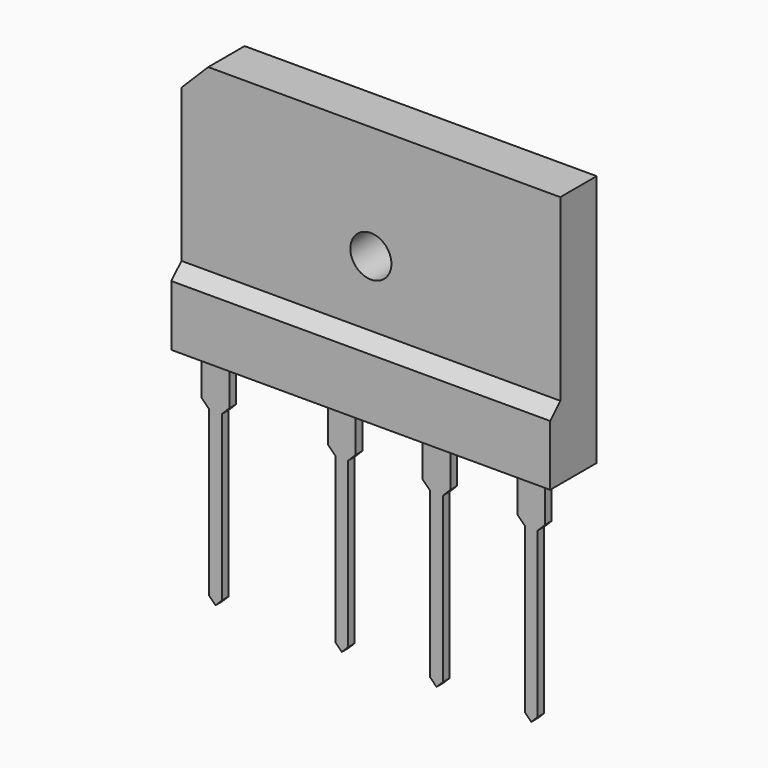
from build123d import *

# Parameters (mm, degrees)
F1_DEPTH = 15
F2_R     = 1.625
F3_DEPTH = 3.6
F5_DEPTH = 0.325


with BuildPart() as f1:
    # F0 (on Right) → F1 (new body, symmetric)
    with BuildSketch(Plane.YZ):
        Polygon((-1.575, 4), (-0.325, 4), (0, 4), (0.325, 4), (3.025, 4), (3.025, 24), (-0.575, 24), (-0.575, 9.8), (-1.575, 8.8), align=None)
    extrude(amount=F1_DEPTH, both=True)

    # F2 (on face) → F3 (cut, through all)
    with BuildSketch(Plane.XZ.offset(0.575)):
        Polygon((-15, 24), (-15, 21.87868), (-12.87868, 24), align=None)
        with Locations((0, 15)):
            Circle(F2_R)
    extrude(amount=-F3_DEPTH, mode=Mode.SUBTRACT)


with BuildPart() as f5:
    # F4 (on Front) → F5 (new body, symmetric)
    with BuildSketch(Plane.XZ):
        Polygon((11.4, 0.6), (12, 0), (12, -13), (12.5, -13.5), (13, -13), (13, 0), (13.6, 0.6), (13.6, 4), (12.5, 4), (11.4, 4), align=None)
        Polygon((5.5, -13), (5.5, 0), (6.1, 0.6), (6.1, 4), (5, 4), (3.9, 4), (3.9, 0.6), (4.5, 0), (4.5, -13), (5, -13.5), align=None)
        Polygon((-3, -13), (-2.5, -13.5), (-2, -13), (-2, 0), (-1.4, 0.6), (-1.4, 4), (-2.5, 4), (-3.6, 4), (-3.6, 0.6), (-3, 0), align=None)
        Polygon((-13, -13), (-12.5, -13.5), (-12, -13), (-12, 0), (-11.4, 0.6), (-11.4, 4), (-12.5, 4), (-13.6, 4), (-13.6, 0.6), (-13, 0), align=None)
    extrude(amount=F5_DEPTH, both=True)


solid = Compound([f1.part, f5.part])
